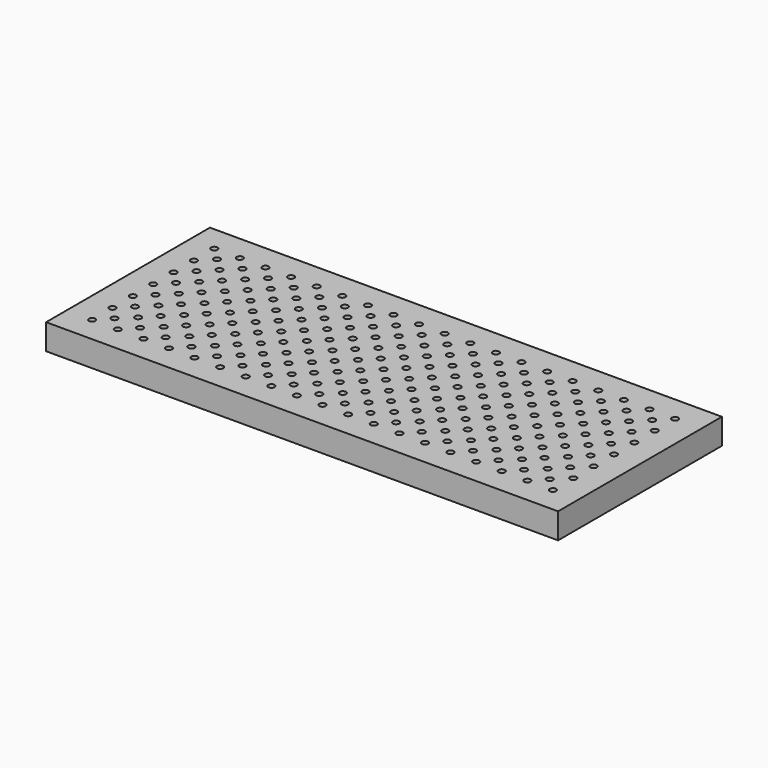
from build123d import *

# Parameters (mm, degrees)
F0_W     = 1524
F0_H     = 609.6
F0_R     = 9.525
F1_DEPTH = 76.2


with BuildPart() as f1:
    # F0 (on Top) → F1 (new body)
    with BuildSketch(Plane.XY):
        with Locations((-29.224472, -183.937503)):
            Rectangle(F0_W, F0_H)
        with Locations((-715.024472, -412.537503)):
            Circle(F0_R, mode=Mode.SUBTRACT)
        with Locations((-638.824472, -412.537503)):
            Circle(F0_R, mode=Mode.SUBTRACT)
        with Locations((-678.966887, -374.442479)):
            Circle(F0_R, mode=Mode.SUBTRACT)
        with Locations((-602.766887, -374.442479)):
            Circle(F0_R, mode=Mode.SUBTRACT)
        with Locations((-715.39582, -336.338408)):
            Circle(F0_R, mode=Mode.SUBTRACT)
        with Locations((-639.19582, -336.338408)):
            Circle(F0_R, mode=Mode.SUBTRACT)
        with Locations((-562.624472, -412.537503)):
            Circle(F0_R, mode=Mode.SUBTRACT)
        with Locations((-526.566887, -374.442479)):
            Circle(F0_R, mode=Mode.SUBTRACT)
        with Locations((-486.424472, -412.537503)):
            Circle(F0_R, mode=Mode.SUBTRACT)
        with Locations((-450.366887, -374.442479)):
            Circle(F0_R, mode=Mode.SUBTRACT)
        with Locations((-562.99582, -336.338408)):
            Circle(F0_R, mode=Mode.SUBTRACT)
        with Locations((-486.79582, -336.338408)):
            Circle(F0_R, mode=Mode.SUBTRACT)
        with Locations((-410.59582, -336.338408)):
            Circle(F0_R, mode=Mode.SUBTRACT)
        with Locations((-410.224472, -412.537503)):
            Circle(F0_R, mode=Mode.SUBTRACT)
        with Locations((-334.024472, -412.537503)):
            Circle(F0_R, mode=Mode.SUBTRACT)
        with Locations((-374.166887, -374.442479)):
            Circle(F0_R, mode=Mode.SUBTRACT)
        with Locations((-257.824472, -412.537503)):
            Circle(F0_R, mode=Mode.SUBTRACT)
        with Locations((-297.966887, -374.442479)):
            Circle(F0_R, mode=Mode.SUBTRACT)
        with Locations((-221.766887, -374.442479)):
            Circle(F0_R, mode=Mode.SUBTRACT)
        with Locations((-334.39582, -336.338408)):
            Circle(F0_R, mode=Mode.SUBTRACT)
        with Locations((-258.19582, -336.338408)):
            Circle(F0_R, mode=Mode.SUBTRACT)
        with Locations((-181.624472, -412.537503)):
            Circle(F0_R, mode=Mode.SUBTRACT)
        with Locations((-145.566887, -374.442479)):
            Circle(F0_R, mode=Mode.SUBTRACT)
        with Locations((-105.424472, -412.537503)):
            Circle(F0_R, mode=Mode.SUBTRACT)
        with Locations((-69.366887, -374.442479)):
            Circle(F0_R, mode=Mode.SUBTRACT)
        with Locations((-181.99582, -336.338408)):
            Circle(F0_R, mode=Mode.SUBTRACT)
        with Locations((-105.79582, -336.338408)):
            Circle(F0_R, mode=Mode.SUBTRACT)
        with Locations((-29.59582, -336.338408)):
            Circle(F0_R, mode=Mode.SUBTRACT)
        with Locations((-678.966887, -298.242479)):
            Circle(F0_R, mode=Mode.SUBTRACT)
        with Locations((-602.766887, -298.242479)):
            Circle(F0_R, mode=Mode.SUBTRACT)
        with Locations((-715.767168, -260.139312)):
            Circle(F0_R, mode=Mode.SUBTRACT)
        with Locations((-639.567168, -260.139312)):
            Circle(F0_R, mode=Mode.SUBTRACT)
        with Locations((-526.566887, -298.242479)):
            Circle(F0_R, mode=Mode.SUBTRACT)
        with Locations((-450.366887, -298.242479)):
            Circle(F0_R, mode=Mode.SUBTRACT)
        with Locations((-563.367168, -260.139312)):
            Circle(F0_R, mode=Mode.SUBTRACT)
        with Locations((-487.167168, -260.139312)):
            Circle(F0_R, mode=Mode.SUBTRACT)
        with Locations((-410.967168, -260.139312)):
            Circle(F0_R, mode=Mode.SUBTRACT)
        with Locations((-678.966887, -222.042479)):
            Circle(F0_R, mode=Mode.SUBTRACT)
        with Locations((-602.766887, -222.042479)):
            Circle(F0_R, mode=Mode.SUBTRACT)
        with Locations((-716.138517, -183.940217)):
            Circle(F0_R, mode=Mode.SUBTRACT)
        with Locations((-639.938517, -183.940217)):
            Circle(F0_R, mode=Mode.SUBTRACT)
        with Locations((-526.566887, -222.042479)):
            Circle(F0_R, mode=Mode.SUBTRACT)
        with Locations((-450.366887, -222.042479)):
            Circle(F0_R, mode=Mode.SUBTRACT)
        with Locations((-563.738517, -183.940217)):
            Circle(F0_R, mode=Mode.SUBTRACT)
        with Locations((-487.538517, -183.940217)):
            Circle(F0_R, mode=Mode.SUBTRACT)
        with Locations((-411.338517, -183.940217)):
            Circle(F0_R, mode=Mode.SUBTRACT)
        with Locations((-374.166887, -298.242479)):
            Circle(F0_R, mode=Mode.SUBTRACT)
        with Locations((-297.966887, -298.242479)):
            Circle(F0_R, mode=Mode.SUBTRACT)
        with Locations((-221.766887, -298.242479)):
            Circle(F0_R, mode=Mode.SUBTRACT)
        with Locations((-334.767168, -260.139312)):
            Circle(F0_R, mode=Mode.SUBTRACT)
        with Locations((-258.567168, -260.139312)):
            Circle(F0_R, mode=Mode.SUBTRACT)
        with Locations((-145.566887, -298.242479)):
            Circle(F0_R, mode=Mode.SUBTRACT)
        with Locations((-69.366887, -298.242479)):
            Circle(F0_R, mode=Mode.SUBTRACT)
        with Locations((-182.367168, -260.139312)):
            Circle(F0_R, mode=Mode.SUBTRACT)
        with Locations((-106.167168, -260.139312)):
            Circle(F0_R, mode=Mode.SUBTRACT)
        with Locations((-29.967168, -260.139312)):
            Circle(F0_R, mode=Mode.SUBTRACT)
        with Locations((-374.166887, -222.042479)):
            Circle(F0_R, mode=Mode.SUBTRACT)
        with Locations((-297.966887, -222.042479)):
            Circle(F0_R, mode=Mode.SUBTRACT)
        with Locations((-221.766887, -222.042479)):
            Circle(F0_R, mode=Mode.SUBTRACT)
        with Locations((-335.138517, -183.940217)):
            Circle(F0_R, mode=Mode.SUBTRACT)
        with Locations((-258.938517, -183.940217)):
            Circle(F0_R, mode=Mode.SUBTRACT)
        with Locations((-145.566887, -222.042479)):
            Circle(F0_R, mode=Mode.SUBTRACT)
        with Locations((-69.366887, -222.042479)):
            Circle(F0_R, mode=Mode.SUBTRACT)
        with Locations((-182.738517, -183.940217)):
            Circle(F0_R, mode=Mode.SUBTRACT)
        with Locations((-106.538517, -183.940217)):
            Circle(F0_R, mode=Mode.SUBTRACT)
        with Locations((-30.338517, -183.940217)):
            Circle(F0_R, mode=Mode.SUBTRACT)
        with Locations((-29.224472, -412.537503)):
            Circle(F0_R, mode=Mode.SUBTRACT)
        with Locations((46.975528, -412.537503)):
            Circle(F0_R, mode=Mode.SUBTRACT)
        with Locations((6.833113, -374.442479)):
            Circle(F0_R, mode=Mode.SUBTRACT)
        with Locations((123.175528, -412.537503)):
            Circle(F0_R, mode=Mode.SUBTRACT)
        with Locations((83.033113, -374.442479)):
            Circle(F0_R, mode=Mode.SUBTRACT)
        with Locations((159.233113, -374.442479)):
            Circle(F0_R, mode=Mode.SUBTRACT)
        with Locations((46.60418, -336.338408)):
            Circle(F0_R, mode=Mode.SUBTRACT)
        with Locations((122.80418, -336.338408)):
            Circle(F0_R, mode=Mode.SUBTRACT)
        with Locations((199.375528, -412.537503)):
            Circle(F0_R, mode=Mode.SUBTRACT)
        with Locations((235.433113, -374.442479)):
            Circle(F0_R, mode=Mode.SUBTRACT)
        with Locations((275.575528, -412.537503)):
            Circle(F0_R, mode=Mode.SUBTRACT)
        with Locations((311.633113, -374.442479)):
            Circle(F0_R, mode=Mode.SUBTRACT)
        with Locations((199.00418, -336.338408)):
            Circle(F0_R, mode=Mode.SUBTRACT)
        with Locations((275.20418, -336.338408)):
            Circle(F0_R, mode=Mode.SUBTRACT)
        with Locations((351.40418, -336.338408)):
            Circle(F0_R, mode=Mode.SUBTRACT)
        with Locations((351.775528, -412.537503)):
            Circle(F0_R, mode=Mode.SUBTRACT)
        with Locations((427.975528, -412.537503)):
            Circle(F0_R, mode=Mode.SUBTRACT)
        with Locations((387.833113, -374.442479)):
            Circle(F0_R, mode=Mode.SUBTRACT)
        with Locations((504.175528, -412.537503)):
            Circle(F0_R, mode=Mode.SUBTRACT)
        with Locations((464.033113, -374.442479)):
            Circle(F0_R, mode=Mode.SUBTRACT)
        with Locations((540.233113, -374.442479)):
            Circle(F0_R, mode=Mode.SUBTRACT)
        with Locations((427.60418, -336.338408)):
            Circle(F0_R, mode=Mode.SUBTRACT)
        with Locations((503.80418, -336.338408)):
            Circle(F0_R, mode=Mode.SUBTRACT)
        with Locations((580.375528, -412.537503)):
            Circle(F0_R, mode=Mode.SUBTRACT)
        with Locations((616.433113, -374.442479)):
            Circle(F0_R, mode=Mode.SUBTRACT)
        with Locations((656.575528, -412.537503)):
            Circle(F0_R, mode=Mode.SUBTRACT)
        with Locations((580.00418, -336.338408)):
            Circle(F0_R, mode=Mode.SUBTRACT)
        with Locations((656.20418, -336.338408)):
            Circle(F0_R, mode=Mode.SUBTRACT)
        with Locations((6.833113, -298.242479)):
            Circle(F0_R, mode=Mode.SUBTRACT)
        with Locations((83.033113, -298.242479)):
            Circle(F0_R, mode=Mode.SUBTRACT)
        with Locations((159.233113, -298.242479)):
            Circle(F0_R, mode=Mode.SUBTRACT)
        with Locations((46.232832, -260.139312)):
            Circle(F0_R, mode=Mode.SUBTRACT)
        with Locations((122.432832, -260.139312)):
            Circle(F0_R, mode=Mode.SUBTRACT)
        with Locations((235.433113, -298.242479)):
            Circle(F0_R, mode=Mode.SUBTRACT)
        with Locations((311.633113, -298.242479)):
            Circle(F0_R, mode=Mode.SUBTRACT)
        with Locations((198.632832, -260.139312)):
            Circle(F0_R, mode=Mode.SUBTRACT)
        with Locations((274.832832, -260.139312)):
            Circle(F0_R, mode=Mode.SUBTRACT)
        with Locations((351.032832, -260.139312)):
            Circle(F0_R, mode=Mode.SUBTRACT)
        with Locations((6.833113, -222.042479)):
            Circle(F0_R, mode=Mode.SUBTRACT)
        with Locations((83.033113, -222.042479)):
            Circle(F0_R, mode=Mode.SUBTRACT)
        with Locations((159.233113, -222.042479)):
            Circle(F0_R, mode=Mode.SUBTRACT)
        with Locations((45.861483, -183.940217)):
            Circle(F0_R, mode=Mode.SUBTRACT)
        with Locations((122.061483, -183.940217)):
            Circle(F0_R, mode=Mode.SUBTRACT)
        with Locations((235.433113, -222.042479)):
            Circle(F0_R, mode=Mode.SUBTRACT)
        with Locations((311.633113, -222.042479)):
            Circle(F0_R, mode=Mode.SUBTRACT)
        with Locations((198.261483, -183.940217)):
            Circle(F0_R, mode=Mode.SUBTRACT)
        with Locations((274.461483, -183.940217)):
            Circle(F0_R, mode=Mode.SUBTRACT)
        with Locations((350.661483, -183.940217)):
            Circle(F0_R, mode=Mode.SUBTRACT)
        with Locations((387.833113, -298.242479)):
            Circle(F0_R, mode=Mode.SUBTRACT)
        with Locations((464.033113, -298.242479)):
            Circle(F0_R, mode=Mode.SUBTRACT)
        with Locations((540.233113, -298.242479)):
            Circle(F0_R, mode=Mode.SUBTRACT)
        with Locations((427.232832, -260.139312)):
            Circle(F0_R, mode=Mode.SUBTRACT)
        with Locations((503.432832, -260.139312)):
            Circle(F0_R, mode=Mode.SUBTRACT)
        with Locations((616.433113, -298.242479)):
            Circle(F0_R, mode=Mode.SUBTRACT)
        with Locations((579.632832, -260.139312)):
            Circle(F0_R, mode=Mode.SUBTRACT)
        with Locations((655.832832, -260.139312)):
            Circle(F0_R, mode=Mode.SUBTRACT)
        with Locations((387.833113, -222.042479)):
            Circle(F0_R, mode=Mode.SUBTRACT)
        with Locations((464.033113, -222.042479)):
            Circle(F0_R, mode=Mode.SUBTRACT)
        with Locations((540.233113, -222.042479)):
            Circle(F0_R, mode=Mode.SUBTRACT)
        with Locations((426.861483, -183.940217)):
            Circle(F0_R, mode=Mode.SUBTRACT)
        with Locations((503.061483, -183.940217)):
            Circle(F0_R, mode=Mode.SUBTRACT)
        with Locations((616.433113, -222.042479)):
            Circle(F0_R, mode=Mode.SUBTRACT)
        with Locations((579.261483, -183.940217)):
            Circle(F0_R, mode=Mode.SUBTRACT)
        with Locations((655.461483, -183.940217)):
            Circle(F0_R, mode=Mode.SUBTRACT)
        with Locations((-678.966887, -145.842479)):
            Circle(F0_R, mode=Mode.SUBTRACT)
        with Locations((-602.766887, -145.842479)):
            Circle(F0_R, mode=Mode.SUBTRACT)
        with Locations((-716.509865, -107.741122)):
            Circle(F0_R, mode=Mode.SUBTRACT)
        with Locations((-640.309865, -107.741122)):
            Circle(F0_R, mode=Mode.SUBTRACT)
        with Locations((-526.566887, -145.842479)):
            Circle(F0_R, mode=Mode.SUBTRACT)
        with Locations((-450.366887, -145.842479)):
            Circle(F0_R, mode=Mode.SUBTRACT)
        with Locations((-564.109865, -107.741122)):
            Circle(F0_R, mode=Mode.SUBTRACT)
        with Locations((-487.909865, -107.741122)):
            Circle(F0_R, mode=Mode.SUBTRACT)
        with Locations((-411.709865, -107.741122)):
            Circle(F0_R, mode=Mode.SUBTRACT)
        with Locations((-678.966887, -69.642479)):
            Circle(F0_R, mode=Mode.SUBTRACT)
        with Locations((-602.766887, -69.642479)):
            Circle(F0_R, mode=Mode.SUBTRACT)
        with Locations((-716.881213, -31.542027)):
            Circle(F0_R, mode=Mode.SUBTRACT)
        with Locations((-640.681213, -31.542027)):
            Circle(F0_R, mode=Mode.SUBTRACT)
        with Locations((-526.566887, -69.642479)):
            Circle(F0_R, mode=Mode.SUBTRACT)
        with Locations((-450.366887, -69.642479)):
            Circle(F0_R, mode=Mode.SUBTRACT)
        with Locations((-564.481213, -31.542027)):
            Circle(F0_R, mode=Mode.SUBTRACT)
        with Locations((-488.281213, -31.542027)):
            Circle(F0_R, mode=Mode.SUBTRACT)
        with Locations((-412.081213, -31.542027)):
            Circle(F0_R, mode=Mode.SUBTRACT)
        with Locations((-374.166887, -145.842479)):
            Circle(F0_R, mode=Mode.SUBTRACT)
        with Locations((-297.966887, -145.842479)):
            Circle(F0_R, mode=Mode.SUBTRACT)
        with Locations((-221.766887, -145.842479)):
            Circle(F0_R, mode=Mode.SUBTRACT)
        with Locations((-335.509865, -107.741122)):
            Circle(F0_R, mode=Mode.SUBTRACT)
        with Locations((-259.309865, -107.741122)):
            Circle(F0_R, mode=Mode.SUBTRACT)
        with Locations((-145.566887, -145.842479)):
            Circle(F0_R, mode=Mode.SUBTRACT)
        with Locations((-69.366887, -145.842479)):
            Circle(F0_R, mode=Mode.SUBTRACT)
        with Locations((-183.109865, -107.741122)):
            Circle(F0_R, mode=Mode.SUBTRACT)
        with Locations((-106.909865, -107.741122)):
            Circle(F0_R, mode=Mode.SUBTRACT)
        with Locations((-30.709865, -107.741122)):
            Circle(F0_R, mode=Mode.SUBTRACT)
        with Locations((-374.166887, -69.642479)):
            Circle(F0_R, mode=Mode.SUBTRACT)
        with Locations((-297.966887, -69.642479)):
            Circle(F0_R, mode=Mode.SUBTRACT)
        with Locations((-221.766887, -69.642479)):
            Circle(F0_R, mode=Mode.SUBTRACT)
        with Locations((-335.881213, -31.542027)):
            Circle(F0_R, mode=Mode.SUBTRACT)
        with Locations((-259.681213, -31.542027)):
            Circle(F0_R, mode=Mode.SUBTRACT)
        with Locations((-145.566887, -69.642479)):
            Circle(F0_R, mode=Mode.SUBTRACT)
        with Locations((-69.366887, -69.642479)):
            Circle(F0_R, mode=Mode.SUBTRACT)
        with Locations((-183.481213, -31.542027)):
            Circle(F0_R, mode=Mode.SUBTRACT)
        with Locations((-107.281213, -31.542027)):
            Circle(F0_R, mode=Mode.SUBTRACT)
        with Locations((-31.081213, -31.542027)):
            Circle(F0_R, mode=Mode.SUBTRACT)
        with Locations((-678.966887, 6.557521)):
            Circle(F0_R, mode=Mode.SUBTRACT)
        with Locations((-602.766887, 6.557521)):
            Circle(F0_R, mode=Mode.SUBTRACT)
        with Locations((-717.252561, 44.657068)):
            Circle(F0_R, mode=Mode.SUBTRACT)
        with Locations((-641.052561, 44.657068)):
            Circle(F0_R, mode=Mode.SUBTRACT)
        with Locations((-526.566887, 6.557521)):
            Circle(F0_R, mode=Mode.SUBTRACT)
        with Locations((-450.366887, 6.557521)):
            Circle(F0_R, mode=Mode.SUBTRACT)
        with Locations((-564.852561, 44.657068)):
            Circle(F0_R, mode=Mode.SUBTRACT)
        with Locations((-488.652561, 44.657068)):
            Circle(F0_R, mode=Mode.SUBTRACT)
        with Locations((-412.452561, 44.657068)):
            Circle(F0_R, mode=Mode.SUBTRACT)
        with Locations((-374.166887, 6.557521)):
            Circle(F0_R, mode=Mode.SUBTRACT)
        with Locations((-297.966887, 6.557521)):
            Circle(F0_R, mode=Mode.SUBTRACT)
        with Locations((-221.766887, 6.557521)):
            Circle(F0_R, mode=Mode.SUBTRACT)
        with Locations((-336.252561, 44.657068)):
            Circle(F0_R, mode=Mode.SUBTRACT)
        with Locations((-260.052561, 44.657068)):
            Circle(F0_R, mode=Mode.SUBTRACT)
        with Locations((-145.566887, 6.557521)):
            Circle(F0_R, mode=Mode.SUBTRACT)
        with Locations((-69.366887, 6.557521)):
            Circle(F0_R, mode=Mode.SUBTRACT)
        with Locations((-183.852561, 44.657068)):
            Circle(F0_R, mode=Mode.SUBTRACT)
        with Locations((-107.652561, 44.657068)):
            Circle(F0_R, mode=Mode.SUBTRACT)
        with Locations((-31.452561, 44.657068)):
            Circle(F0_R, mode=Mode.SUBTRACT)
        with Locations((6.833113, -145.842479)):
            Circle(F0_R, mode=Mode.SUBTRACT)
        with Locations((83.033113, -145.842479)):
            Circle(F0_R, mode=Mode.SUBTRACT)
        with Locations((159.233113, -145.842479)):
            Circle(F0_R, mode=Mode.SUBTRACT)
        with Locations((45.490135, -107.741122)):
            Circle(F0_R, mode=Mode.SUBTRACT)
        with Locations((121.690135, -107.741122)):
            Circle(F0_R, mode=Mode.SUBTRACT)
        with Locations((235.433113, -145.842479)):
            Circle(F0_R, mode=Mode.SUBTRACT)
        with Locations((311.633113, -145.842479)):
            Circle(F0_R, mode=Mode.SUBTRACT)
        with Locations((197.890135, -107.741122)):
            Circle(F0_R, mode=Mode.SUBTRACT)
        with Locations((274.090135, -107.741122)):
            Circle(F0_R, mode=Mode.SUBTRACT)
        with Locations((350.290135, -107.741122)):
            Circle(F0_R, mode=Mode.SUBTRACT)
        with Locations((6.833113, -69.642479)):
            Circle(F0_R, mode=Mode.SUBTRACT)
        with Locations((83.033113, -69.642479)):
            Circle(F0_R, mode=Mode.SUBTRACT)
        with Locations((159.233113, -69.642479)):
            Circle(F0_R, mode=Mode.SUBTRACT)
        with Locations((45.118787, -31.542027)):
            Circle(F0_R, mode=Mode.SUBTRACT)
        with Locations((121.318787, -31.542027)):
            Circle(F0_R, mode=Mode.SUBTRACT)
        with Locations((235.433113, -69.642479)):
            Circle(F0_R, mode=Mode.SUBTRACT)
        with Locations((311.633113, -69.642479)):
            Circle(F0_R, mode=Mode.SUBTRACT)
        with Locations((197.518787, -31.542027)):
            Circle(F0_R, mode=Mode.SUBTRACT)
        with Locations((273.718787, -31.542027)):
            Circle(F0_R, mode=Mode.SUBTRACT)
        with Locations((349.918787, -31.542027)):
            Circle(F0_R, mode=Mode.SUBTRACT)
        with Locations((387.833113, -145.842479)):
            Circle(F0_R, mode=Mode.SUBTRACT)
        with Locations((464.033113, -145.842479)):
            Circle(F0_R, mode=Mode.SUBTRACT)
        with Locations((540.233113, -145.842479)):
            Circle(F0_R, mode=Mode.SUBTRACT)
        with Locations((426.490135, -107.741122)):
            Circle(F0_R, mode=Mode.SUBTRACT)
        with Locations((502.690135, -107.741122)):
            Circle(F0_R, mode=Mode.SUBTRACT)
        with Locations((616.433113, -145.842479)):
            Circle(F0_R, mode=Mode.SUBTRACT)
        with Locations((578.890135, -107.741122)):
            Circle(F0_R, mode=Mode.SUBTRACT)
        with Locations((655.090135, -107.741122)):
            Circle(F0_R, mode=Mode.SUBTRACT)
        with Locations((387.833113, -69.642479)):
            Circle(F0_R, mode=Mode.SUBTRACT)
        with Locations((464.033113, -69.642479)):
            Circle(F0_R, mode=Mode.SUBTRACT)
        with Locations((540.233113, -69.642479)):
            Circle(F0_R, mode=Mode.SUBTRACT)
        with Locations((426.118787, -31.542027)):
            Circle(F0_R, mode=Mode.SUBTRACT)
        with Locations((502.318787, -31.542027)):
            Circle(F0_R, mode=Mode.SUBTRACT)
        with Locations((616.433113, -69.642479)):
            Circle(F0_R, mode=Mode.SUBTRACT)
        with Locations((578.518787, -31.542027)):
            Circle(F0_R, mode=Mode.SUBTRACT)
        with Locations((654.718787, -31.542027)):
            Circle(F0_R, mode=Mode.SUBTRACT)
        with Locations((6.833113, 6.557521)):
            Circle(F0_R, mode=Mode.SUBTRACT)
        with Locations((83.033113, 6.557521)):
            Circle(F0_R, mode=Mode.SUBTRACT)
        with Locations((159.233113, 6.557521)):
            Circle(F0_R, mode=Mode.SUBTRACT)
        with Locations((44.747439, 44.657068)):
            Circle(F0_R, mode=Mode.SUBTRACT)
        with Locations((120.947439, 44.657068)):
            Circle(F0_R, mode=Mode.SUBTRACT)
        with Locations((235.433113, 6.557521)):
            Circle(F0_R, mode=Mode.SUBTRACT)
        with Locations((311.633113, 6.557521)):
            Circle(F0_R, mode=Mode.SUBTRACT)
        with Locations((197.147439, 44.657068)):
            Circle(F0_R, mode=Mode.SUBTRACT)
        with Locations((273.347439, 44.657068)):
            Circle(F0_R, mode=Mode.SUBTRACT)
        with Locations((349.547439, 44.657068)):
            Circle(F0_R, mode=Mode.SUBTRACT)
        with Locations((387.833113, 6.557521)):
            Circle(F0_R, mode=Mode.SUBTRACT)
        with Locations((464.033113, 6.557521)):
            Circle(F0_R, mode=Mode.SUBTRACT)
        with Locations((540.233113, 6.557521)):
            Circle(F0_R, mode=Mode.SUBTRACT)
        with Locations((425.747439, 44.657068)):
            Circle(F0_R, mode=Mode.SUBTRACT)
        with Locations((501.947439, 44.657068)):
            Circle(F0_R, mode=Mode.SUBTRACT)
        with Locations((616.433113, 6.557521)):
            Circle(F0_R, mode=Mode.SUBTRACT)
        with Locations((578.147439, 44.657068)):
            Circle(F0_R, mode=Mode.SUBTRACT)
        with Locations((654.347439, 44.657068)):
            Circle(F0_R, mode=Mode.SUBTRACT)
    extrude(amount=-F1_DEPTH)


solid = f1.part
